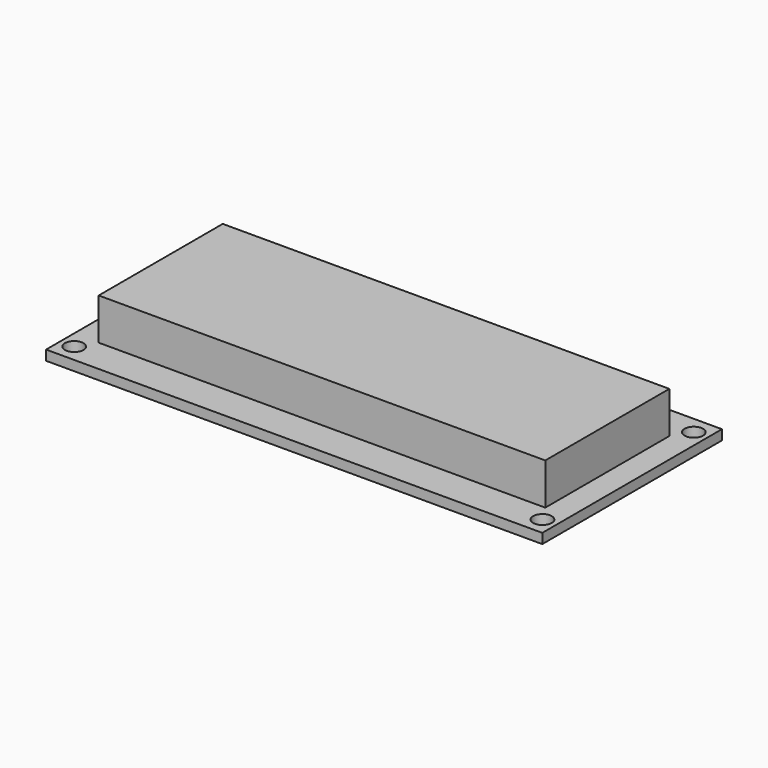
from build123d import *

# Parameters (mm, degrees)
BOX004_W        = 80
BOX004_H        = 36.2
BOX004_DEPTH    = 1.6
BOX005_W        = 72
BOX005_H        = 25
BOX005_DEPTH    = 6.7
SKETCH019_R     = 1.5
POCKET002_DEPTH = 5


with BuildPart() as part:
    # Box004 → Box004 (join)
    with BuildSketch(Plane.XY):
        with Locations((40, 18.1)):
            Rectangle(BOX004_W, BOX004_H)
    extrude(amount=BOX004_DEPTH)

    # Box005 → Box005 (join)
    with BuildSketch(Plane(origin=(4, 5.6, 1.6), x_dir=(1, 0, 0), z_dir=(0, 0, 1))):
        with Locations((36, 12.5)):
            Rectangle(BOX005_W, BOX005_H)
    extrude(amount=BOX005_DEPTH)

    # Sketch019 → Pocket002 (cut)
    with BuildSketch(Plane.XY):
        with Locations((2.25, 33.35)):
            Circle(SKETCH019_R)
        with Locations((77.75, 33.35)):
            Circle(SKETCH019_R)
        with Locations((77.75, 2.85)):
            Circle(SKETCH019_R)
        with Locations((2.25, 2.85)):
            Circle(SKETCH019_R)
    extrude(amount=POCKET002_DEPTH, mode=Mode.SUBTRACT)


solid = part.part
